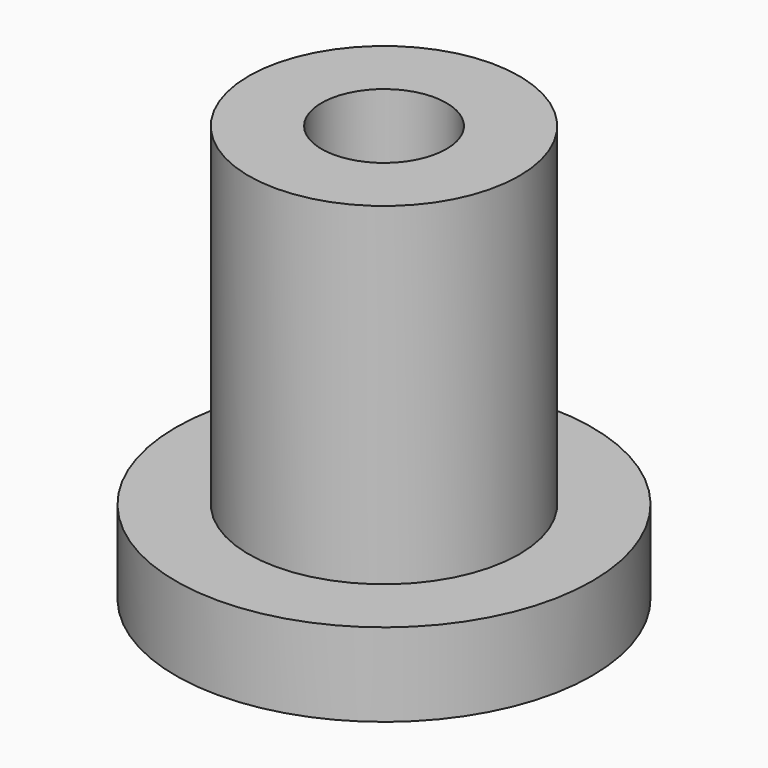
from build123d import *

# Parameters (mm, degrees)
F0_R      = 3.25
F0_R_2    = 1.5
F1_DEPTH  = 10
F2_R      = 5
F3_DEPTH  = 2
F3_FACE_R = 1.5
F4_DEPTH  = 25


with BuildPart() as f1:
    # F0 (on Top) → F1 (new body)
    with BuildSketch(Plane.XY):
        Circle(F0_R)
        Circle(F0_R_2, mode=Mode.SUBTRACT)
    extrude(amount=F1_DEPTH)

    # F2 (on Top) → F3 (join)
    with BuildSketch(Plane.XY):
        Circle(F2_R)
    extrude(amount=F3_DEPTH)

    # F3_face (on face) → F4 (cut)
    with BuildSketch(Plane.XY.offset(2)):
        Circle(F3_FACE_R)
    extrude(amount=-F4_DEPTH, mode=Mode.SUBTRACT)


solid = f1.part
